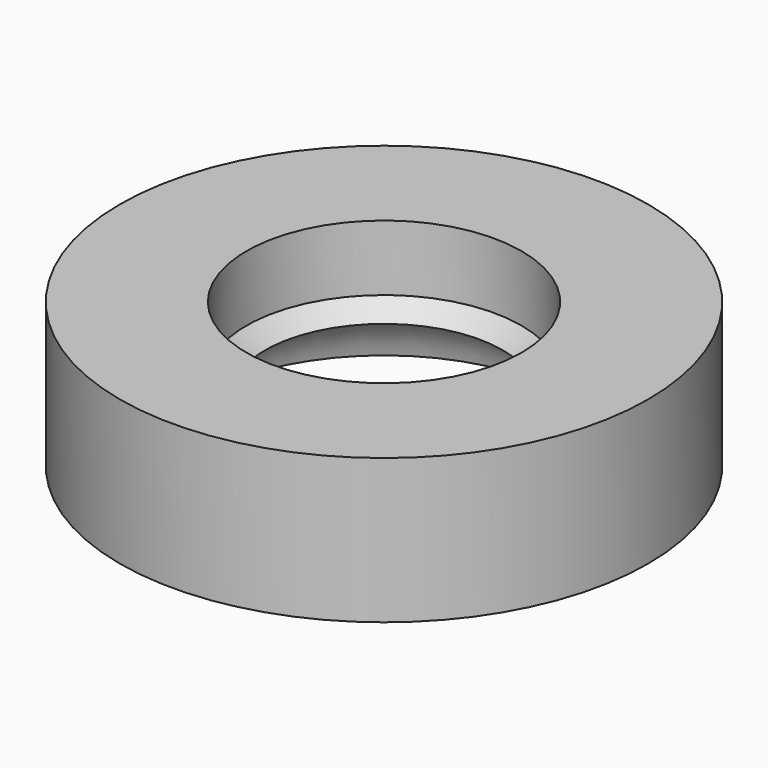
from build123d import *


with BuildPart() as f1:
    # F0 (on Front) → F1 (revolve)
    with BuildSketch(Plane.XZ):
        with BuildLine():
            Line((52.149862, 28.556485), (27.165592, 28.556485))
            Line((27.165592, 28.556485), (27.165592, 15.600041))
            Line((27.165592, 15.600041), (23.495335, 12.504641))
            ThreePointArc((23.495335, 12.504641), (32.165276, 8.33007), (36.982417, 0))
            Line((36.982417, 0), (52.149862, 0))
            Line((52.149862, 0), (52.149862, 28.556485))
        make_face()
    revolve(axis=Axis((0, 0, 1.420937), (0, 0, -1)))


solid = f1.part
